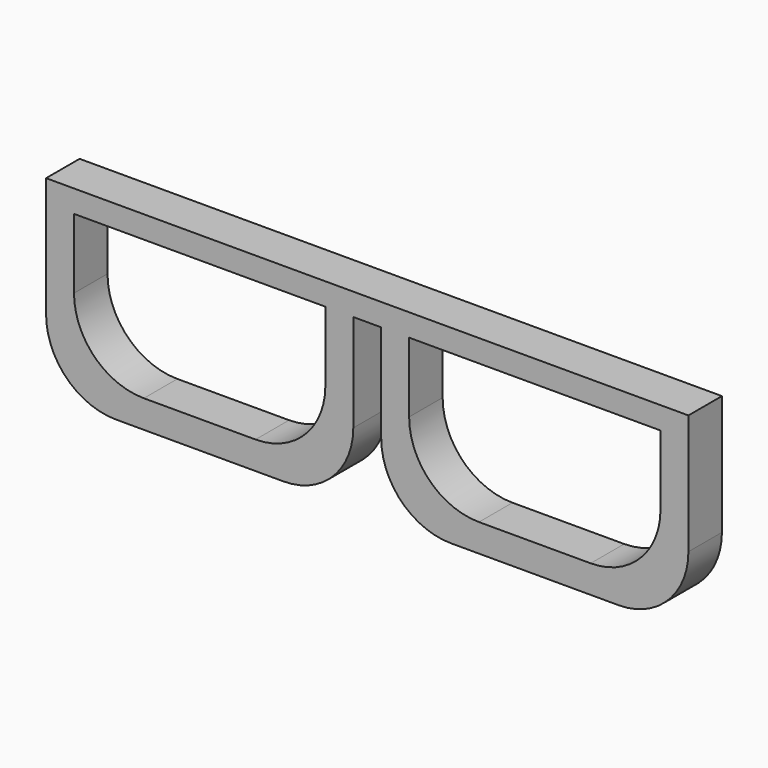
from build123d import *

# Parameters (mm, degrees)
F0_W     = 2.54
F0_H     = 2.2360555756
F1_DEPTH = 1.905


with BuildPart() as f1:
    # F0 (on Front) → F1 (new body, symmetric)
    with BuildSketch(Plane.XZ):
        Polygon((-58.3446317705, 24.4664963263), (-55.8046317705, 24.4664963263), (-32.9446317705, 24.4664963263), (-30.4046317705, 24.4664963263), (-27.8646317705, 24.4664963263), (-25.3246317705, 24.4664963263), (-2.4646317705, 24.4664963263), (0.0753682295, 24.4664963263), (0.0753682295, 26.4984963263), (-58.3446317705, 26.4984963263), align=None)
        with BuildLine():
            Line((-55.8046317705, 18.1164963263), (-55.8046317705, 24.4664963263))
            Line((-55.8046317705, 24.4664963263), (-58.3446317705, 24.4664963263))
            Line((-58.3446317705, 24.4664963263), (-58.3446317705, 15.5880270362))
            ThreePointArc((-58.3446317705, 15.5880270362), (-56.484759831, 11.0978989757), (-51.9946317705, 9.2380270362))
            Line((-51.9946317705, 9.2380270362), (-36.7546317705, 9.2380270362))
            ThreePointArc((-36.7546317705, 9.2380270362), (-32.2645037099, 11.0978989757), (-30.4046317705, 15.5880270362))
            Line((-30.4046317705, 15.5880270362), (-30.4046317705, 22.2304407507))
            Line((-30.4046317705, 22.2304407507), (-32.9446317705, 22.2304407507))
            Line((-32.9446317705, 22.2304407507), (-32.9446317705, 18.1164963263))
            ThreePointArc((-32.9446317705, 18.1164963263), (-34.8045037099, 13.6263682658), (-39.2946317705, 11.7664963263))
            Line((-39.2946317705, 11.7664963263), (-49.4546317705, 11.7664963263))
            ThreePointArc((-49.4546317705, 11.7664963263), (-53.944759831, 13.6263682658), (-55.8046317705, 18.1164963263))
        make_face()
        with BuildLine():
            Line((-25.3246317705, 22.2304407507), (-27.8646317705, 22.2304407507))
            Line((-27.8646317705, 22.2304407507), (-27.8646317705, 15.5880270362))
            ThreePointArc((-27.8646317705, 15.5880270362), (-26.004759831, 11.0978989757), (-21.5146317705, 9.2380270362))
            Line((-21.5146317705, 9.2380270362), (-6.2746317705, 9.2380270362))
            ThreePointArc((-6.2746317705, 9.2380270362), (-1.7845037099, 11.0978989757), (0.0753682295, 15.5880270362))
            Line((0.0753682295, 15.5880270362), (0.0753682295, 24.4664963263))
            Line((0.0753682295, 24.4664963263), (-2.4646317705, 24.4664963263))
            Line((-2.4646317705, 24.4664963263), (-2.4646317705, 18.1164963263))
            ThreePointArc((-2.4646317705, 18.1164963263), (-4.3245037099, 13.6263682658), (-8.8146317705, 11.7664963263))
            Line((-8.8146317705, 11.7664963263), (-18.9746317705, 11.7664963263))
            ThreePointArc((-18.9746317705, 11.7664963263), (-23.464759831, 13.6263682658), (-25.3246317705, 18.1164963263))
            Line((-25.3246317705, 18.1164963263), (-25.3246317705, 22.2304407507))
        make_face()
        with Locations((-26.5946317705, 23.3484685385)):
            Rectangle(F0_W, F0_H)
        with Locations((-31.6746317705, 23.3484685385)):
            Rectangle(F0_W, F0_H)
    extrude(amount=F1_DEPTH, both=True)


solid = f1.part
